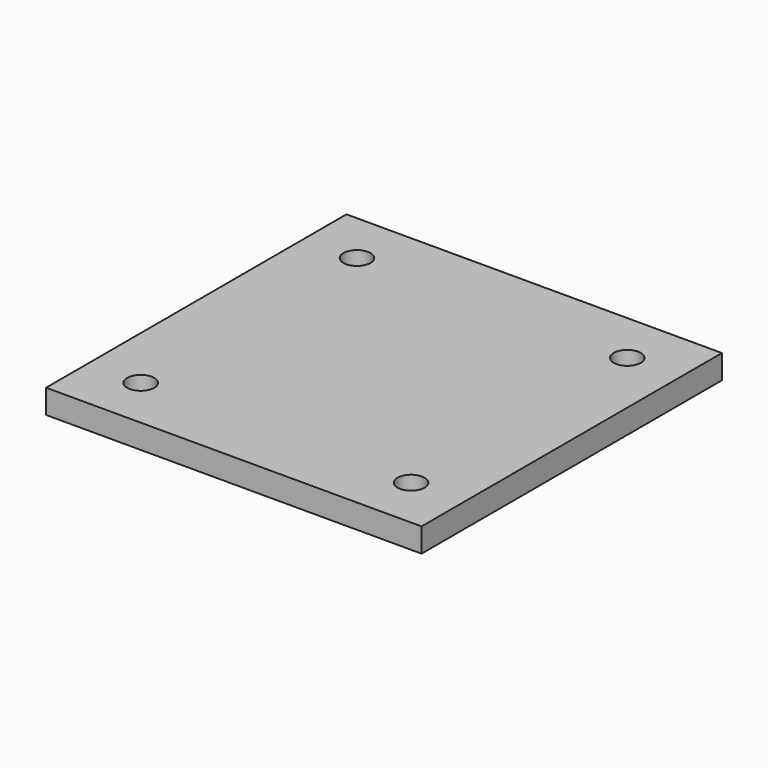
from build123d import *

# Parameters (mm, degrees)
F0_W     = 250
F0_H     = 250
F1_DEPTH = 16
F3_D     = 18
F3_DEPTH = 20


with BuildPart() as f1:
    # F0 (on Top) → F1 (new body)
    with BuildSketch(Plane.XY):
        Rectangle(F0_W, F0_H)
    extrude(amount=F1_DEPTH)

    # F3
    with Locations(Plane.XY.offset(16)):
        with Locations((-90, 90), (90, 90), (90, -90), (-90, -90)):
            Hole(F3_D / 2, depth=F3_DEPTH)


solid = f1.part
